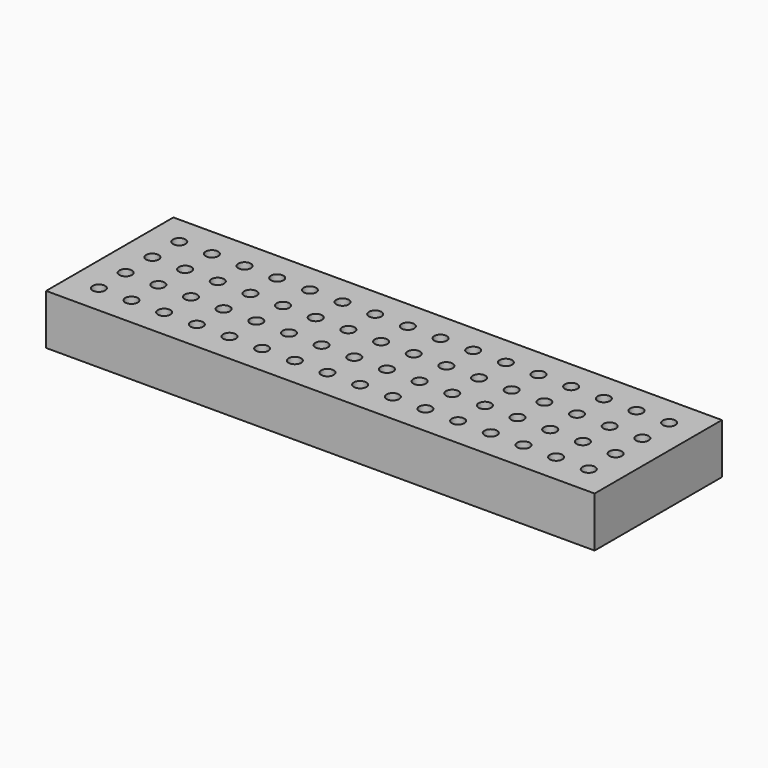
from build123d import *

# Parameters (mm, degrees)
F0_W     = 262
F0_H     = 76
F1_DEPTH = 24
F3_D     = 6
F3_DEPTH = 18
F3_TIP   = 1.8025818571


with BuildPart() as f1:
    # F0 (on Top) → F1 (new body)
    with BuildSketch(Plane.XY):
        Rectangle(F0_W, F0_H)
    extrude(amount=F1_DEPTH)

    # F3
    with Locations(Plane.XY.offset(24)):
        with Locations((-117, 24), (-117, 8), (-117, -8), (-117, -24), (-101.4, 24), (-101.4, 8), (-101.4, -8), (-101.4, -24), (-54.6, 8), (23.4, 24), (-23.4, -8), (-85.8, -8), (-23.4, 8), (54.6, -24), (-70.2, -24), (-39, 24), (-70.2, 24), (7.8, -8), (-70.2, -8), (39, 8), (-39, -24), (-7.8, 24), (70.2, 8), (-7.8, 8), (54.6, 8), (70.2, -24), (-23.4, -24), (7.8, 24), (-54.6, 24), (-7.8, -24), (-7.8, -8), (-54.6, -24), (-39, 8), (39, 24), (23.4, -24), (-39, -8), (54.6, 24), (-54.6, -8), (39, -8), (-85.8, -24), (54.6, -8), (70.2, 24), (-70.2, 8), (23.4, 8), (70.2, -8), (-85.8, 24), (-23.4, 24), (-85.8, 8), (7.8, -24), (23.4, -8), (7.8, 8), (39, -24), (101.4, 8), (117, 8), (85.8, 24), (85.8, -8), (101.4, -8), (101.4, -24), (117, -8), (117, 24), (85.8, -24), (117, -24), (85.8, 8), (101.4, 24)):
            Hole(F3_D / 2, depth=F3_DEPTH)
            with Locations((0, 0, -(F3_DEPTH + F3_TIP / 2))):  # 118° drill point
                Cone(0, F3_D / 2, F3_TIP, mode=Mode.SUBTRACT)


solid = f1.part
